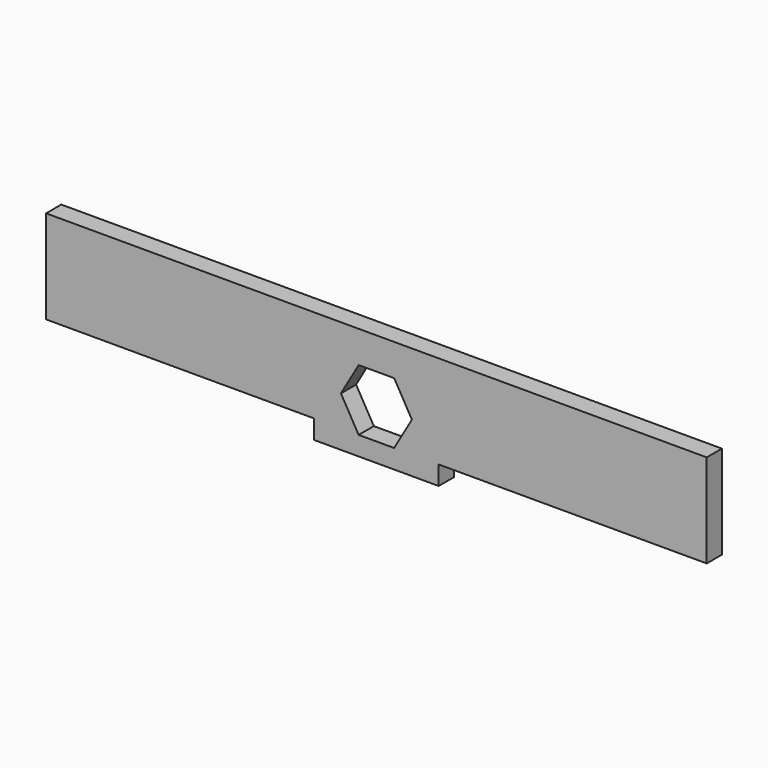
from build123d import *

# Parameters (mm, degrees)
F1_DEPTH = 3.1


with BuildPart() as f1:
    # F0 (on Front) → F1 (new body)
    with BuildSketch(Plane.XZ):
        Polygon((0, 15.24), (0, 0), (43.7388, 0), (51.002522, 0), (48.106245, 5.0165), (51.002522, 10.033), (56.795078, 10.033), (59.691355, 5.0165), (56.795078, 0), (64.0588, 0), (107.7976, 0), (107.7976, 15.24), align=None)
        Polygon((51.002522, 0), (43.7388, 0), (43.7388, -3.1), (64.0588, -3.1), (64.0588, 0), (56.795078, 0), (53.8988, 0), align=None)
    extrude(amount=F1_DEPTH)


solid = f1.part
